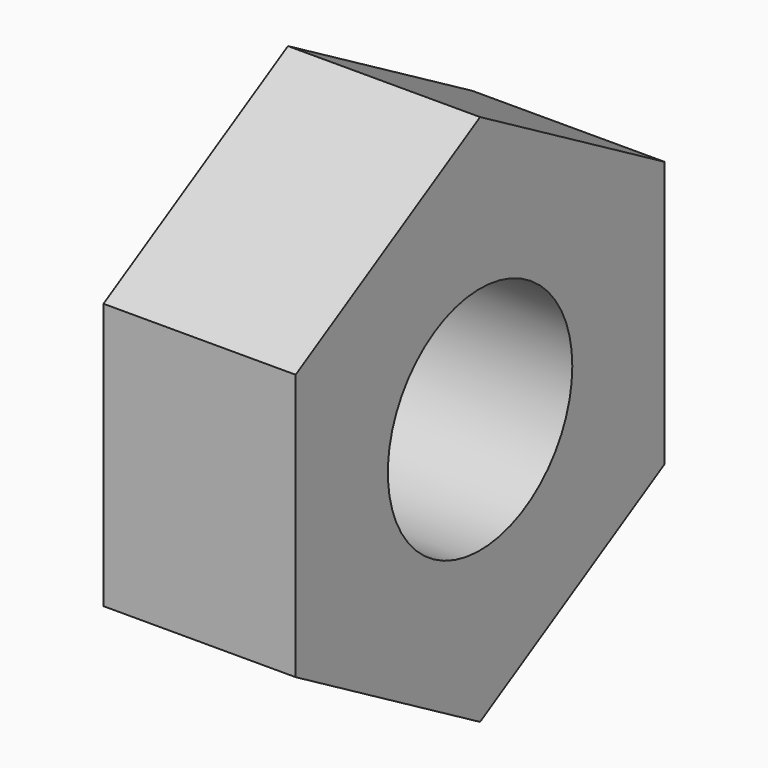
from build123d import *

# Parameters (mm, degrees)
F0_R     = 3
F1_DEPTH = 5


with BuildPart() as f1:
    # F0 (on Right) → F1 (new body)
    with BuildSketch(Plane.YZ):
        Polygon((-0.000442, -6.928203), (5.999779, -3.464485), (6.000221, 3.463718), (0.000442, 6.928203), (-5.999779, 3.464485), (-6.000221, -3.463718), align=None)
        Circle(F0_R, mode=Mode.SUBTRACT)
    extrude(amount=F1_DEPTH)


solid = f1.part
